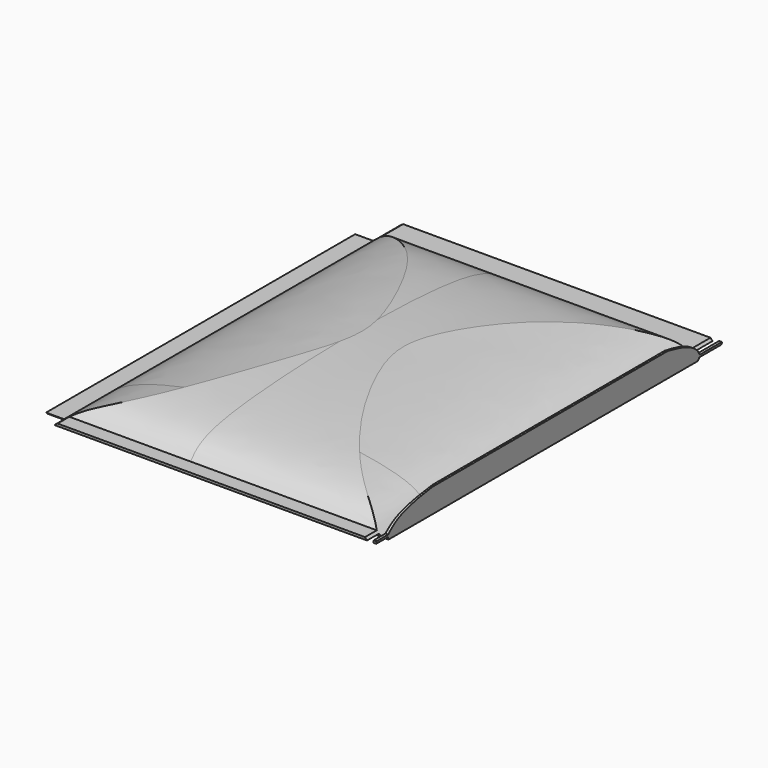
from build123d import *

# Parameters (mm, degrees)
F1_DEPTH      = 600
F1_DEPTH_BACK = 170
F2_W          = 852.618381381
F2_H          = 228.8223654032
F3_DEPTH      = 204.6553360756
F3_DEPTH_BACK = 280.8985654583


with BuildPart() as f1:
    # F0 (on Front) → F1 (new body, two sides)
    with BuildSketch(Plane.XZ) as f1_sk:
        with BuildLine():
            add(Edge.make_bspline(
                [(266.6156888008, -0.8510221431), (263.6749605383, -5.2061964589), (248.9875601352, -26.958015496), (-157.6804090062, -36.2523038972), (-175.4423733503, -7.350189732), (-179.4364750385, -0.8510221431)],
                knots=[0, 0, 0, 0, 0.162514738, 0.8116761618, 1, 1, 1, 1], degree=3))
            Line((266.6156888008, -0.8510221431), (272.1509635448, -0.8510221431))
            Line((272.1509635448, -0.8510221431), (275.7925987244, 1.9298080522))
            Line((275.7925987244, 1.9298080522), (280.8975653583, 40.0127714774))
            Line((280.8975653583, 40.0127714774), (278.4233093262, 40.4506549239))
            Line((278.4233093262, 40.4506549239), (271.5672637912, 1.7106382475))
            Line((271.5672637912, 1.7106382475), (266.6156888008, 2.1489778569))
            add(Edge.make_bspline(
                [(266.6156888008, 2.1489778569), (260.7000871467, 9.5974570272), (243.3823089335, 31.4026964331), (118.193346455, 50.1228129418), (-23.6275927761, 57.3497440882), (-150.656748096, 24.8390863015), (-172.1459370933, 7.8968814742), (-179.4364750385, 2.1489778569)],
                knots=[0, 0, 0, 0, 0.1229837176, 0.3600318056, 0.6326428444, 0.8753684337, 1, 1, 1, 1], degree=3))
            Line((-179.4364750385, 2.1489778569), (-204.6543359756, 2.1489778569))
            Line((-204.6543359756, 2.1489778569), (-204.6543359756, -0.8510221431))
            Line((-204.6543359756, -0.8510221431), (-179.4364750385, -0.8510221431))
        make_face()
    extrude(amount=-F1_DEPTH)
    extrude(f1_sk.sketch, amount=F1_DEPTH_BACK)

    # F2 (on Right) → F3 (cut, two sides)
    with BuildSketch(Plane.YZ) as f3_sk:
        with Locations((220.3405275941, 11.653624475)):
            Rectangle(F2_W, F2_H)
        with BuildLine():
            Line((-105.1568537951, 9.2136431485), (-84.5880284905, 9.2136431485))
            add(Edge.make_bspline(
                [(-84.5880284905, 9.2136431485), (-81.9000358452, 12.6324365925), (-73.5895324125, 23.2023667972), (-15.0377711088, 51.972403842), (393.934906009, 59.2912893748), (454.7782751262, 20.2140479612), (459.5964693859, 11.5897848624), (460.9239697456, 9.2136431485)],
                knots=[0, 0, 0, 0, 0.0869730488, 0.2688957582, 0.7438329749, 0.9294213144, 1, 1, 1, 1], degree=3))
            Line((460.9239697456, 9.2136431485), (500.0395774841, 9.2136431485))
            Line((500.0395774841, 9.2136431485), (500.0395774841, 5.9140874073))
            Line((500.0395774841, 5.9140874073), (460.9239697456, 5.9140874073))
            add(Edge.make_bspline(
                [(460.9239697456, 5.9140874073), (460.2329770402, 3.8816298861), (457.44708448, -4.3126798993), (387.1802817897, -19.6122102946), (-9.9483132079, -25.8246604584), (-79.0237288845, -3.793603856), (-83.4566250396, 3.9401973989), (-84.5880284905, 5.9140874073)],
                knots=[0, 0, 0, 0, 0.0627030105, 0.2528012946, 0.741650562, 0.934061743, 1, 1, 1, 1], degree=3))
            Line((-84.5880284905, 5.9140874073), (-105.1568537951, 5.9140874073))
            Line((-105.1568537951, 5.9140874073), (-105.1568537951, 9.2136431485))
        make_face(mode=Mode.SUBTRACT)
    extrude(amount=-F3_DEPTH, mode=Mode.SUBTRACT)
    extrude(f3_sk.sketch, amount=F3_DEPTH_BACK, mode=Mode.SUBTRACT)


solid = f1.part
